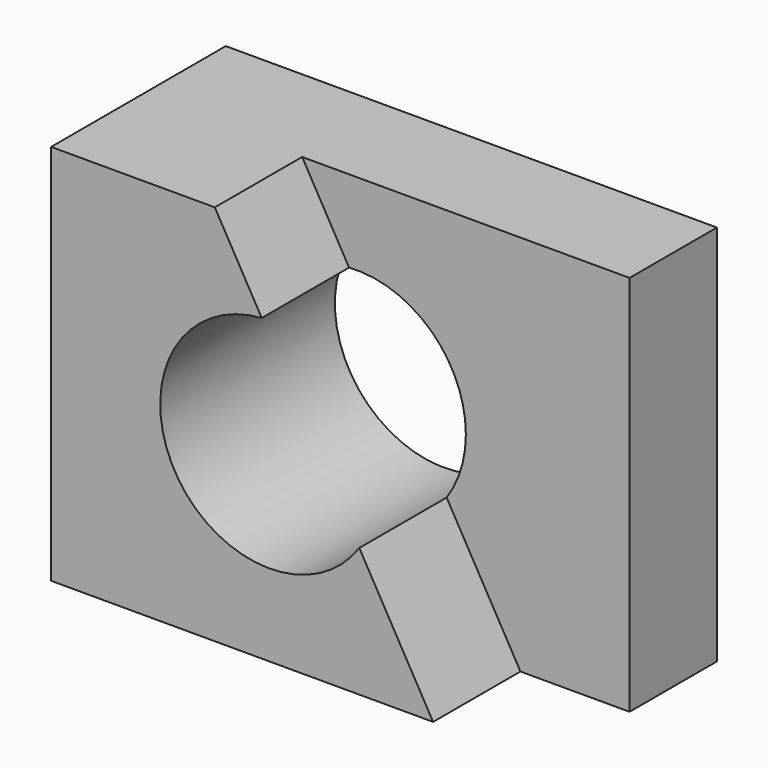
from build123d import *

# Parameters (mm, degrees)
F0_W     = 57.15
F0_H     = 44.45
F1_DEPTH = 25.4
F2_W     = 12.7
F2_H     = 44.45
F3_DEPTH = 12.7
F5_DEPTH = 12.7
F6_R     = 12.7
F7_DEPTH = 25.4


with BuildPart() as f1:
    # F0 (on Front) → F1 (new body)
    with BuildSketch(Plane.XZ):
        with Locations((28.575, 22.225)):
            Rectangle(F0_W, F0_H)
    extrude(amount=F1_DEPTH)

    # F2 (on face) → F3 (cut)
    with BuildSketch(Plane.XZ.offset(25.4)):
        with Locations((50.8, 22.225)):
            Rectangle(F2_W, F2_H)
    extrude(amount=-F3_DEPTH, mode=Mode.SUBTRACT)

    # F4 (on face) → F5 (cut)
    with BuildSketch(Plane.XZ.offset(25.4)):
        Polygon((19.05, 44.45), (44.45, 0), (44.45, 44.45), align=None)
    extrude(amount=-F5_DEPTH, mode=Mode.SUBTRACT)

    # F6 (on face) → F7 (cut)
    with BuildSketch(Plane.XZ.offset(25.4)):
        with Locations((25.4, 22.225)):
            Circle(F6_R)
    extrude(amount=-F7_DEPTH, mode=Mode.SUBTRACT)


solid = f1.part
